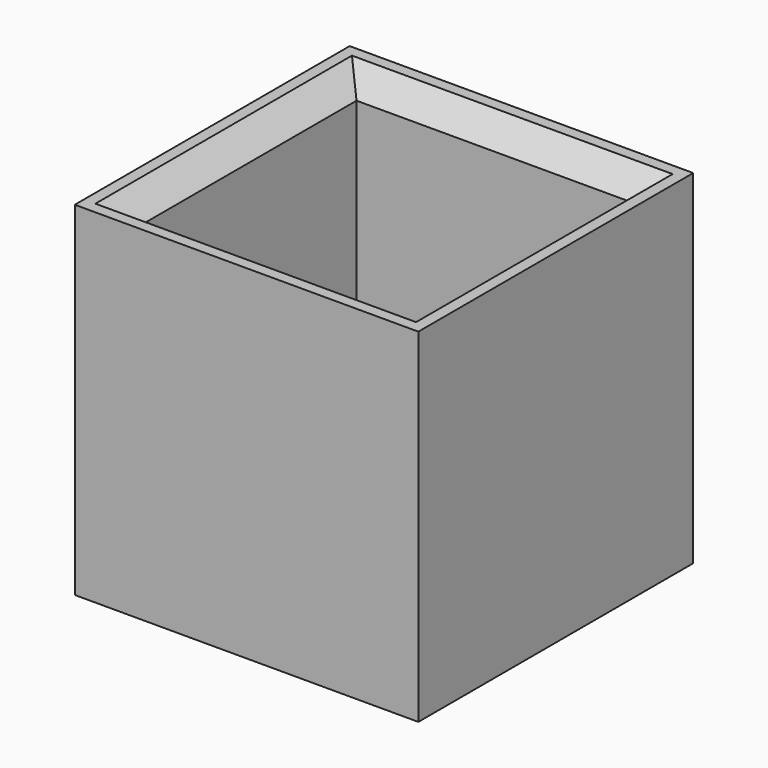
from build123d import *

# Parameters (mm, degrees)
F0_W     = 76.2
F0_H     = 76.2
F1_DEPTH = 38.1
F2_DEPTH = 38.1
F3_T     = -7.62
F4_SIZE  = 5.08
F5_SIZE  = 5.08


with BuildPart() as f1:
    # F0 (on Front) → F1 (new body)
    with BuildSketch(Plane.XZ):
        Rectangle(F0_W, F0_H)
    extrude(amount=F1_DEPTH)

    # F2 (add): a face of the model
    f2_faces = [f1.faces().sort_by_distance(p)[0] for p in [
        (0, 0, 0),
    ]]
    extrude(f2_faces, amount=F2_DEPTH)

    # F3
    f3_openings = [f1.faces().sort_by_distance(p)[0] for p in [
        (0, 0, 38.1),
    ]]
    offset(amount=F3_T, openings=f3_openings)

    # F4
    f4_edges = [f1.edges().sort_by_distance(p)[0] for p in [
        (-30.48, 0, 38.1),
        (0, -30.48, 38.1),
        (0, 30.48, 38.1),
        (30.48, 0, 38.1),
    ]]
    chamfer(f4_edges, length=F4_SIZE)

    # F5
    f5_edges = [f1.edges().sort_by_distance(p)[0] for p in [
        (0, 30.48, -30.48),
        (-30.48, 0, -30.48),
        (30.48, 0, -30.48),
        (0, -30.48, -30.48),
    ]]
    chamfer(f5_edges, length=F5_SIZE)


solid = f1.part
